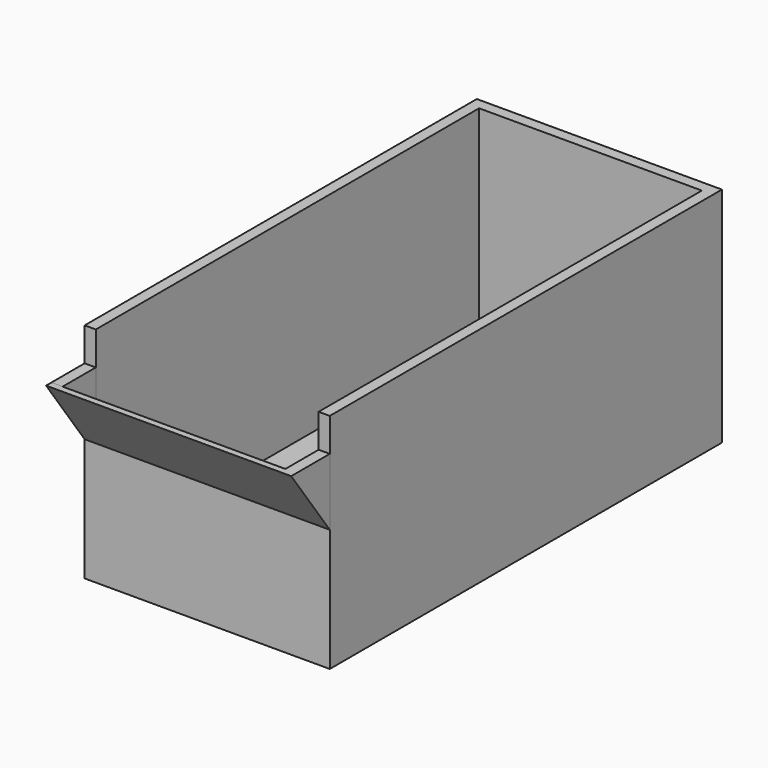
from build123d import *

# Parameters (mm, degrees)
F0_W      = 139.7
F0_H      = 279.4
F1_DEPTH  = 127
F2_W      = 127
F2_H      = 266.7
F3_DEPTH  = 114.3
F4_W      = 127
F4_H      = 57.15
F5_DEPTH  = 25.4
F7_DEPTH  = 139.7
F9_DEPTH  = 133.35
F11_DEPTH = 6.35
F12_DEPTH = 6.35


with BuildPart() as f1:
    # F0 (on Top) → F1 (new body)
    with BuildSketch(Plane.XY):
        Rectangle(F0_W, F0_H)
    extrude(amount=F1_DEPTH)

    # F2 (on face) → F3 (cut)
    with BuildSketch(Plane.XY.offset(127)):
        Rectangle(F2_W, F2_H)
    extrude(amount=-F3_DEPTH, mode=Mode.SUBTRACT)

    # F4 (on face) → F5 (cut)
    with BuildSketch(Plane.XZ.offset(139.7)):
        with Locations((0, 98.425)):
            Rectangle(F4_W, F4_H)
    extrude(amount=-F5_DEPTH, mode=Mode.SUBTRACT)


with BuildPart() as f7:
    # F6 (on face) → F7 (new body)
    with BuildSketch(Plane.YZ.offset(69.85)):
        Polygon((-139.7, 69.85), (-139.7, 107.95), (-167.185268, 107.95), align=None)
    extrude(amount=-F7_DEPTH)

    # F8 (on face) → F9 (cut)
    with BuildSketch(Plane(origin=(-69.85, 0, 0), x_dir=(0, -1, 0), z_dir=(-1, 0, 0))):
        Polygon((163.375268, 107.95), (139.7, 107.95), (139.7, 75.131411), align=None)
    extrude(amount=-F9_DEPTH, mode=Mode.SUBTRACT)


with BuildPart() as f11:
    # F10 (on face) → F11 (new body)
    with BuildSketch(Plane(origin=(-69.85, 0, 0), x_dir=(0, -1, 0), z_dir=(-1, 0, 0))):
        Polygon((139.7, 75.131411), (163.375268, 107.95), (139.7, 107.95), align=None)
    extrude(amount=-F11_DEPTH)


with BuildPart() as f12:
    # F10 (on face) → F12 (new body)
    with BuildSketch(Plane(origin=(-69.85, 0, 0), x_dir=(0, -1, 0), z_dir=(-1, 0, 0))):
        Polygon((139.7, 75.131411), (163.375268, 107.95), (139.7, 107.95), align=None)
    extrude(amount=-F12_DEPTH)


solid = Compound([f1.part, f7.part, f12.part])
